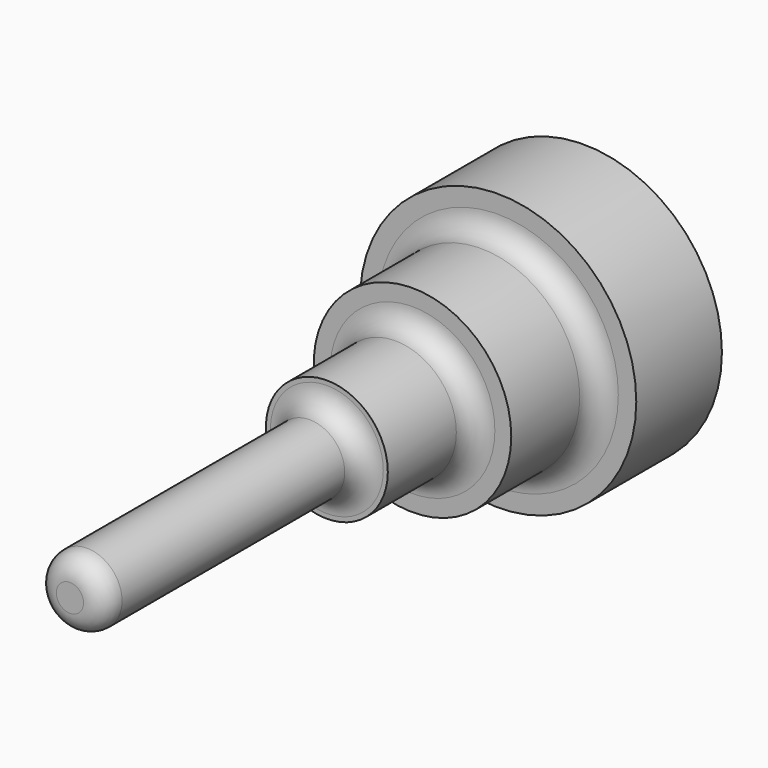
from build123d import *

# Parameters (mm, degrees)
F0_R     = 32.775689
F1_DEPTH = 25.4
F2_R     = 23.431872
F3_DEPTH = 25.4
F4_R     = 14.46384
F5_DEPTH = 25.4
F6_R     = 8.307558
F7_DEPTH = 76.2
F8_R     = 5.08


with BuildPart() as f1:
    # F0 (on Front) → F1 (new body)
    with BuildSketch(Plane.XZ):
        Circle(F0_R)
    extrude(amount=F1_DEPTH)

    # F2 (on face) → F3 (join)
    with BuildSketch(Plane.XZ.offset(25.4)):
        Circle(F2_R)
    extrude(amount=F3_DEPTH)

    # F4 (on face) → F5 (join)
    with BuildSketch(Plane.XZ.offset(50.8)):
        Circle(F4_R)
    extrude(amount=F5_DEPTH)

    # F6 (on face) → F7 (join)
    with BuildSketch(Plane.XZ.offset(76.2)):
        Circle(F6_R)
    extrude(amount=F7_DEPTH)

    # F8
    f8_edges = [f1.edges().sort_by_distance(p)[0] for p in [
        (-23.431872, -25.4, 0),
        (-14.46384, -50.8, 0),
        (-8.307558, -76.2, 0),
        (-8.307558, -152.4, 0),
    ]]
    fillet(f8_edges, radius=F8_R)


solid = f1.part
